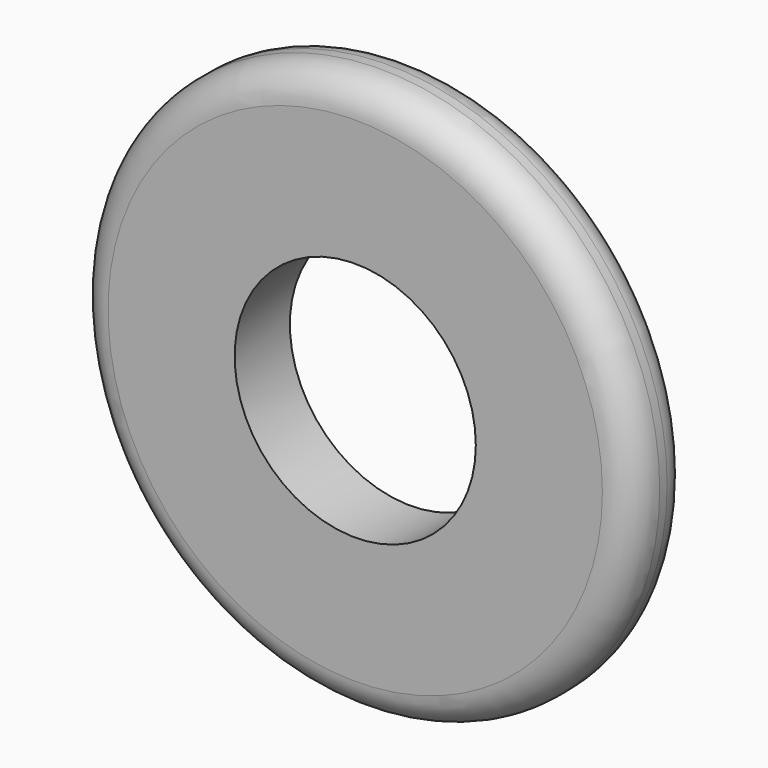
from build123d import *

# Parameters (mm, degrees)
F1_R     = 60.8108481728
F3_DEPTH = 15.0508303195
F4_R     = 26.2822858087
F5_DEPTH = 160.9226148576
F6_R     = 6.0899953587
F7_R     = 6.9381681598


with BuildPart() as f3:
    # F1 (on face) → F3 (new body)
    with BuildSketch(Plane.XZ):
        Circle(F1_R)
    extrude(amount=F3_DEPTH)

    # F4 (on face) → F5 (cut)
    with BuildSketch(Plane.XZ):
        Circle(F4_R)
    extrude(amount=F5_DEPTH, mode=Mode.SUBTRACT)

    # F6
    f6_edges = [f3.edges().sort_by_distance(p)[0] for p in [
        (-60.810848, 0, 0),
    ]]
    fillet(f6_edges, radius=F6_R)

    # F7
    f7_edges = [f3.edges().sort_by_distance(p)[0] for p in [
        (-60.810848, -15.05083, 0),
    ]]
    fillet(f7_edges, radius=F7_R)


solid = f3.part
